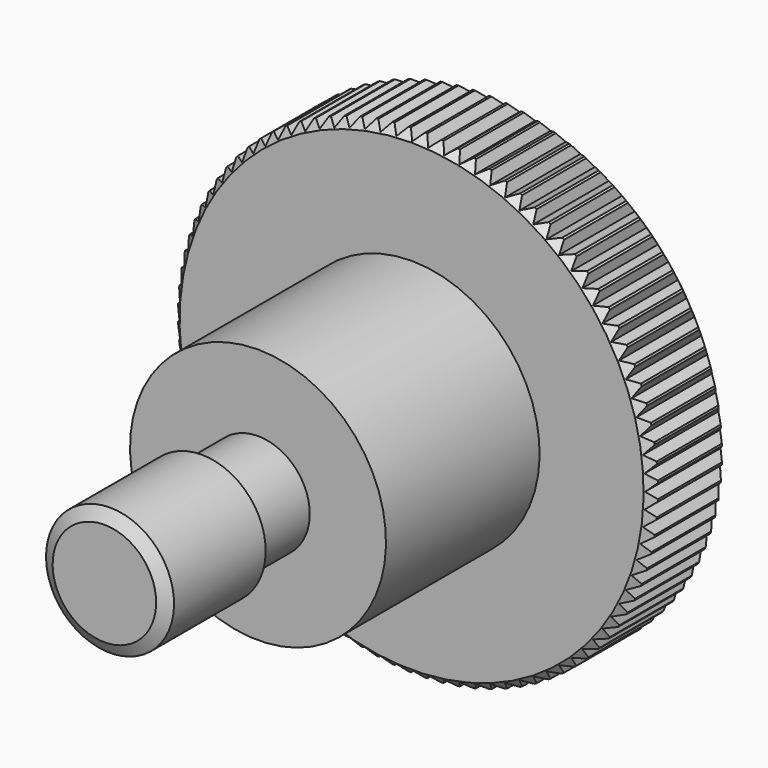
from build123d import *

# Parameters (mm, degrees)
POCKET_DEPTH       = 133.924048
POLARPATTERN_COUNT = 92


with BuildPart() as part:
    # Sketch → Revolution (revolve)
    with BuildSketch(Plane.YZ):
        Polygon((0, 0), (0, 3.235), (0.441673, 4), (7.6, 4), (8.041673, 3.235), (12, 3.235), (12, 8), (24, 8), (24, 14.5), (24.5, 15), (29.5, 15), (30, 14.5), (30, 0), align=None)
    revolve(axis=Axis((0, 0, 0), (0, 1, 0)))

    # Sketch001 → Pocket (cut, through all)
    with BuildSketch(Plane.ZX.offset(30)):
        Polygon((-0.5, 15.05), (0, 14.55), (0.5, 15.05), align=None)
    pocket = extrude(amount=-POCKET_DEPTH, mode=Mode.SUBTRACT)

    # PolarPattern: Pocket ×92 about axis
    polarpattern_axis = Axis((0, 30, 0), (0, 1, 0))
    for i in range(1, POLARPATTERN_COUNT):
        add(pocket.rotate(polarpattern_axis, i * 360 / POLARPATTERN_COUNT), mode=Mode.SUBTRACT)


solid = part.part
